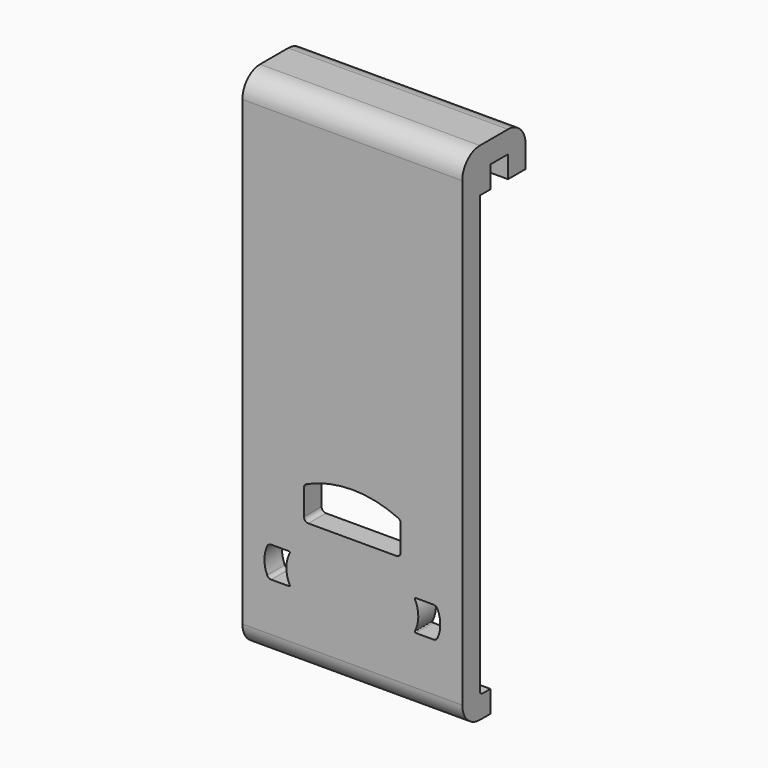
from build123d import *

# Parameters (mm, degrees)
F1_DEPTH = 25
F3_DEPTH = 5


with BuildPart() as f1:
    # F0 (on Right) → F1 (new body, symmetric)
    with BuildSketch(Plane.YZ):
        with BuildLine():
            ThreePointArc((0, 59.607812), (-3.535534, 58.143345), (-5, 54.607812))
            Line((-5, 54.607812), (-5, -50.392188))
            ThreePointArc((-5, -50.392188), (-3.535534, -53.927722), (0, -55.392188))
            Line((0, -55.392188), (3, -55.392188))
            Line((3, -55.392188), (3, -50.392188))
            Line((3, -50.392188), (0.784377, -50.392188))
            ThreePointArc((0.784377, -50.392188), (0.229739, -50.16245), (0, -49.607812))
            Line((0, -49.607812), (0, 49.607812))
            Line((0, 49.607812), (3, 49.607812))
            Line((3, 49.607812), (3, 54.607812))
            Line((3, 54.607812), (8, 54.607812))
            Line((8, 54.607812), (8, 49.607812))
            Line((8, 49.607812), (13, 49.607812))
            Line((13, 49.607812), (13, 54.607812))
            ThreePointArc((13, 54.607812), (11.535534, 58.143345), (8, 59.607812))
            Line((8, 59.607812), (0, 59.607812))
        make_face()
    extrude(amount=F1_DEPTH, both=True)

    # F2 (on face) → F3 (cut, through all)
    with BuildSketch(Plane.XZ.offset(5)):
        with BuildLine():
            ThreePointArc((-11, -24.392188), (-10.707107, -25.099295), (-10, -25.392188))
            Line((-10, -25.392188), (10, -25.392188))
            ThreePointArc((10, -25.392188), (10.707107, -25.099295), (11, -24.392188))
            Line((11, -24.392188), (11, -18.574764))
            ThreePointArc((11, -18.574764), (10.841625, -18.034703), (10.416667, -17.665705))
            ThreePointArc((10.416667, -17.665705), (0, -15.392188), (-10.416667, -17.665705))
            ThreePointArc((-10.416667, -17.665705), (-10.841625, -18.034703), (-11, -18.574764))
            Line((-11, -18.574764), (-11, -24.392188))
        make_face()
        with BuildLine():
            ThreePointArc((14.221463, -39.100522), (14.228436, -39.296272), (14.399219, -39.392188))
            Line((14.399219, -39.392188), (18.454356, -39.392188))
            ThreePointArc((18.454356, -39.392188), (18.994418, -39.233814), (19.363415, -38.808855))
            ThreePointArc((19.363415, -38.808855), (20, -35.892188), (19.363415, -32.975522))
            ThreePointArc((19.363415, -32.975522), (18.994418, -32.550563), (18.454356, -32.392188))
            Line((18.454356, -32.392188), (14.399219, -32.392188))
            ThreePointArc((14.399219, -32.392188), (14.228436, -32.488105), (14.221463, -32.683855))
            ThreePointArc((14.221463, -32.683855), (15, -35.892188), (14.221463, -39.100522))
        make_face()
        with BuildLine():
            ThreePointArc((-14.399219, -39.392188), (-14.228436, -39.296272), (-14.221463, -39.100522))
            ThreePointArc((-14.221463, -39.100522), (-15, -35.892188), (-14.221463, -32.683855))
            ThreePointArc((-14.221463, -32.683855), (-14.228436, -32.488105), (-14.399219, -32.392188))
            Line((-14.399219, -32.392188), (-18.454356, -32.392188))
            ThreePointArc((-18.454356, -32.392188), (-18.994418, -32.550563), (-19.363415, -32.975522))
            ThreePointArc((-19.363415, -32.975522), (-20, -35.892188), (-19.363415, -38.808855))
            ThreePointArc((-19.363415, -38.808855), (-18.994418, -39.233814), (-18.454356, -39.392188))
            Line((-18.454356, -39.392188), (-14.399219, -39.392188))
        make_face()
    extrude(amount=-F3_DEPTH, mode=Mode.SUBTRACT)


solid = f1.part
